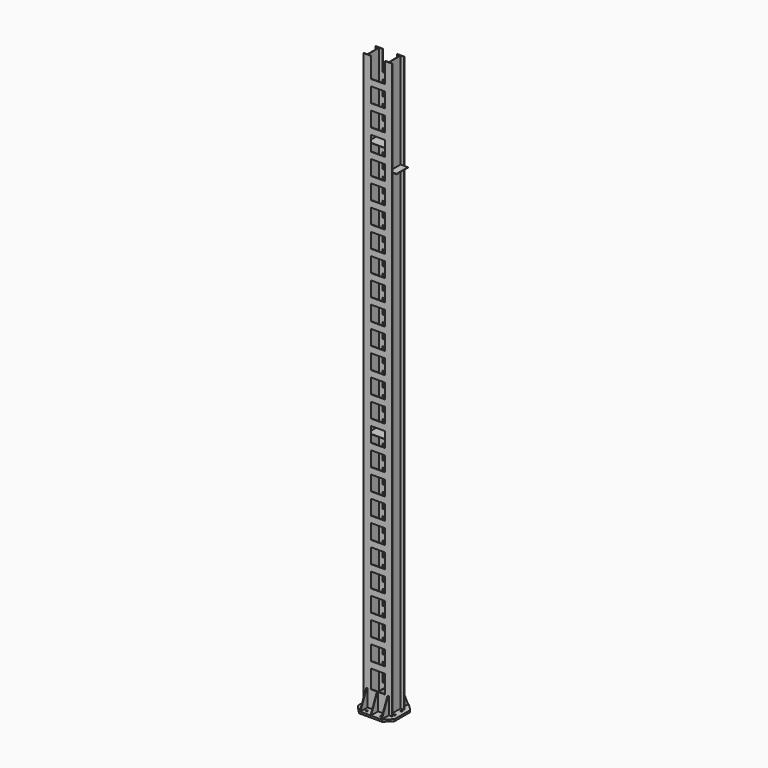
from build123d import *

# Parameters (mm, degrees)
F1_DEPTH  = 13500
F2_W      = 492
F2_H      = 334.6
F3_DEPTH  = 13500.001
F4_W      = 330
F4_H      = 350
F4_H_2    = 475
F4_H_3    = 430
F5_DEPTH  = 360.001
F7_W      = 492
F7_H      = 334.6
F8_DEPTH  = 3
F10_W     = 492
F10_H     = 334.6
F11_DEPTH = 3
F13_DEPTH = 6
F16_DEPTH = 7
F19_DEPTH = 7
F20_R     = 22
F21_DEPTH = 45
F23_W     = 171
F23_H     = 334.6
F24_DEPTH = 5


with BuildPart() as f1:
    # F0 (on Top) → F1 (new body)
    with BuildSketch(Plane.XY):
        Polygon((335, 180), (-335, 180), (-335, 167.3), (-254, 167.3), (-254, -167.3), (-335, -167.3), (-335, -180), (335, -180), (335, -167.3), (254, -167.3), (254, 167.3), (335, 167.3), align=None)
    extrude(amount=F1_DEPTH)

    # F2 (on face) → F3 (cut, through all)
    with BuildSketch(Plane(origin=(0, 0, 0), x_dir=(1, 0, 0), z_dir=(0, 0, -1))):
        Rectangle(F2_W, F2_H)
    extrude(amount=-F3_DEPTH, mode=Mode.SUBTRACT)

    # F4 (on face) → F5 (cut, through all)
    with BuildSketch(Plane.XZ.offset(180)):
        with Locations((0, 1200)):
            Rectangle(F4_W, F4_H)
        with Locations((0, 1700)):
            Rectangle(F4_W, F4_H)
        with Locations((0, 2200)):
            Rectangle(F4_W, F4_H)
        with Locations((0, 2700)):
            Rectangle(F4_W, F4_H)
        with Locations((0, 3200)):
            Rectangle(F4_W, F4_H)
        with Locations((0, 3700)):
            Rectangle(F4_W, F4_H)
        with Locations((0, 4200)):
            Rectangle(F4_W, F4_H)
        with Locations((0, 4700)):
            Rectangle(F4_W, F4_H)
        with Locations((0, 5200)):
            Rectangle(F4_W, F4_H)
        with Locations((0, 5700)):
            Rectangle(F4_W, F4_H)
        with Locations((0, 6200)):
            Rectangle(F4_W, F4_H)
        with Locations((0, 6700)):
            Rectangle(F4_W, F4_H)
        with Locations((0, 7200)):
            Rectangle(F4_W, F4_H)
        with Locations((0, 7700)):
            Rectangle(F4_W, F4_H)
        with Locations((0, 8200)):
            Rectangle(F4_W, F4_H)
        with Locations((0, 8700)):
            Rectangle(F4_W, F4_H)
        with Locations((0, 9200)):
            Rectangle(F4_W, F4_H)
        with Locations((0, 9700)):
            Rectangle(F4_W, F4_H)
        with Locations((0, 10200)):
            Rectangle(F4_W, F4_H)
        with Locations((0, 10700)):
            Rectangle(F4_W, F4_H)
        with Locations((0, 11200)):
            Rectangle(F4_W, F4_H)
        with Locations((0, 11700)):
            Rectangle(F4_W, F4_H)
        with Locations((0, 12200)):
            Rectangle(F4_W, F4_H)
        with Locations((0, 12700)):
            Rectangle(F4_W, F4_H)
        with Locations((0, 13262.5)):
            Rectangle(F4_W, F4_H_2)
        with Locations((0, 660)):
            Rectangle(F4_W, F4_H_3)
    extrude(amount=-F5_DEPTH, mode=Mode.SUBTRACT)

    # F7 (on offset) → F8 (join, symmetric)
    with BuildSketch(Plane.XY.offset(5700)):
        Rectangle(F7_W, F7_H)
    extrude(amount=F8_DEPTH, both=True)

    # F10 (on offset) → F11 (join, symmetric)
    with BuildSketch(Plane.XY.offset(11700)):
        Rectangle(F10_W, F10_H)
    extrude(amount=F11_DEPTH, both=True)

    # F12 (on Right) → F13 (join, symmetric)
    with BuildSketch(Plane.YZ):
        Polygon((-375, 70), (-375, 0), (375, 0), (375, 70), (205, 445), (-205, 445), align=None)
    extrude(amount=F13_DEPTH, both=True)

    # F15 (on offset) → F16 (join, symmetric)
    with BuildSketch(Plane.YZ.offset(250)):
        Polygon((180, 445), (180, 0), (375, 0), (375, 70), (205, 445), align=None)
        Polygon((-180, 0), (-180, 445), (-205, 445), (-375, 70), (-375, 0), align=None)
    extrude(amount=F16_DEPTH, both=True)

    # F18 (on offset) → F19 (join, symmetric)
    with BuildSketch(Plane.YZ.offset(-250)):
        Polygon((180, 445), (180, 0), (375, 0), (375, 70), (205, 445), align=None)
        Polygon((-180, 0), (-180, 445), (-205, 445), (-375, 70), (-375, 0), align=None)
    extrude(amount=F19_DEPTH, both=True)

    # F20 (on Top) → F21 (join)
    with BuildSketch(Plane.XY):
        Polygon((-430, 230), (-430, -230), (-270, -390), (270, -390), (430, -230), (430, 230), (270, 390), (-270, 390), align=None)
        with Locations((-170, -290)):
            Circle(F20_R, mode=Mode.SUBTRACT)
        with Locations((-330, -100)):
            Circle(F20_R, mode=Mode.SUBTRACT)
        with Locations((170, -290)):
            Circle(F20_R, mode=Mode.SUBTRACT)
        with Locations((330, -100)):
            Circle(F20_R, mode=Mode.SUBTRACT)
        with Locations((-330, 100)):
            Circle(F20_R, mode=Mode.SUBTRACT)
        with Locations((-170, 290)):
            Circle(F20_R, mode=Mode.SUBTRACT)
        with Locations((330, 100)):
            Circle(F20_R, mode=Mode.SUBTRACT)
        with Locations((170, 290)):
            Circle(F20_R, mode=Mode.SUBTRACT)
    extrude(amount=F21_DEPTH)

    # F23 (on offset) → F24 (join, symmetric)
    with BuildSketch(Plane.XY.offset(11250)):
        with Locations((339.5, 0)):
            Rectangle(F23_W, F23_H)
    extrude(amount=F24_DEPTH, both=True)


solid = f1.part
